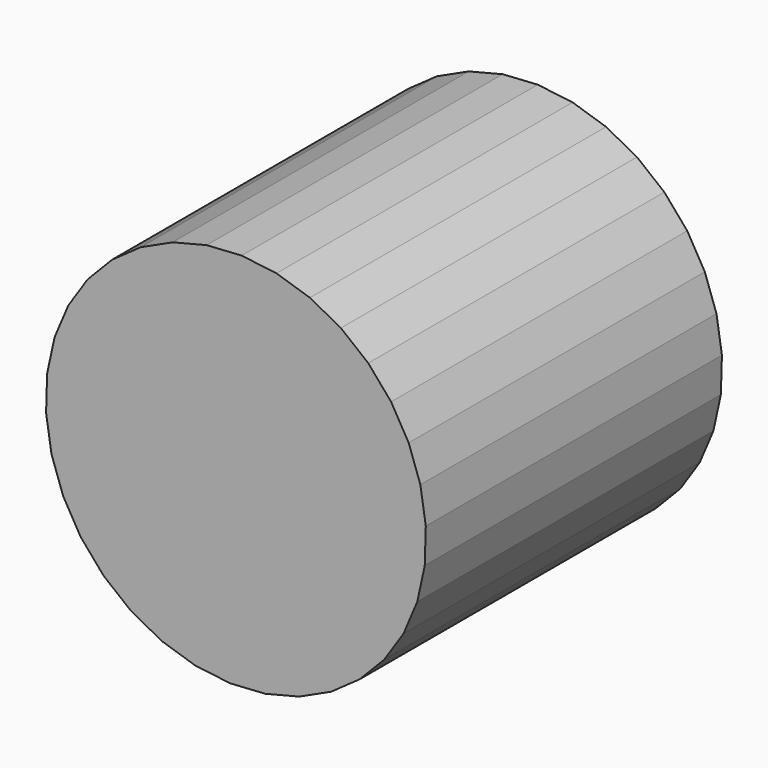
from build123d import *

# Parameters (mm, degrees)
F1_DEPTH = 25.4


with BuildPart() as f1:
    # F0 (on Front) → F1 (new body)
    with BuildSketch(Plane.XZ):
        Polygon((12.441914, -3.94553), (12.955057, -1.592154), (13.02703, 0.815441), (12.655383, 3.195267), (11.852772, 5.466282), (10.64653, 7.551149), (9.077732, 9.378871), (7.199804, 10.887207), (5.076694, 12.024792), (2.780704, 12.752887), (0.390021, 13.046698), (-2.013945, 12.896219), (-4.349328, 12.306575), (-6.536599, 11.297846), (-8.501275, 9.904381), (-10.17645, 8.173635), (-11.505078, 6.164546), (-12.441914, 3.94553), (-12.955057, 1.592154), (-13.02703, -0.815441), (-12.655383, -3.195267), (-11.852772, -5.466282), (-10.64653, -7.551149), (-9.077732, -9.378871), (-7.199804, -10.887207), (-5.076694, -12.024792), (-2.780704, -12.752887), (-0.390021, -13.046698), (2.013945, -12.896219), (4.349328, -12.306575), (6.536599, -11.297846), (8.501275, -9.904381), (10.17645, -8.173635), (11.505078, -6.164546), align=None)
    extrude(amount=F1_DEPTH)


solid = f1.part
